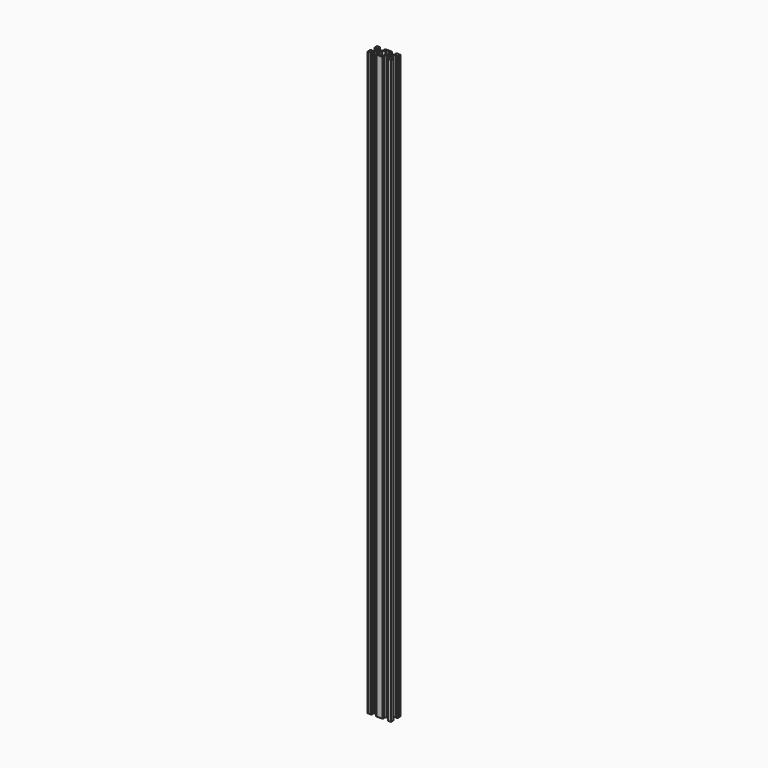
from build123d import *

# Parameters (mm, degrees)
SKETCH001_R         = 2.1
PAD001_DEPTH        = 1000
CHAMFER001_1_ANGLE  = 45
CHAMFER001_1_SIZE   = 1.7
CHAMFER001_2_ANGLE  = 45
CHAMFER001_2_SIZE   = 1.7
CHAMFER001_3_ANGLE  = 45
CHAMFER001_3_SIZE   = 1.7
CHAMFER001_4_ANGLE  = 45
CHAMFER001_4_SIZE   = 1.7
CHAMFER001_5_ANGLE  = 45
CHAMFER001_5_SIZE   = 1.7
CHAMFER001_6_ANGLE  = 45
CHAMFER001_6_SIZE   = 1.7
CHAMFER001_7_ANGLE  = 45
CHAMFER001_7_SIZE   = 1.7
CHAMFER001_8_ANGLE  = 45
CHAMFER001_8_SIZE   = 1.7
CHAMFER001_9_ANGLE  = 45
CHAMFER001_9_SIZE   = 1.7
CHAMFER001_10_ANGLE = 45
CHAMFER001_10_SIZE  = 1.7
CHAMFER001_11_ANGLE = 45
CHAMFER001_11_SIZE  = 1.7
CHAMFER001_12_ANGLE = 45
CHAMFER001_12_SIZE  = 1.7
FILLET001_R         = 0.2


with BuildPart() as part:
    # Sketch001 → Pad001 (new body)
    with BuildSketch(Plane.XY):
        Polygon((0, 3.723883), (0.176777, 3.90066), (2.84, 3.90066), (5.49934, 6.56), (5.49934, 8.2), (3.1, 8.2), (3.1, 10), (16.9, 10), (16.9, 8.2), (14.50066, 8.2), (14.50066, 6.56), (17.16, 3.90066), (19.823223, 3.90066), (20, 3.723883), (20.176777, 3.90066), (22.84, 3.90066), (25.49934, 6.56), (25.49934, 8.2), (23.1, 8.2), (23.1, 10), (30, 10), (30, 3.1), (28.2, 3.1), (28.2, 5.49934), (26.56, 5.49934), (23.90066, 2.84), (23.90066, 0.176777), (23.723883, 0), (23.90066, -0.176777), (23.90066, -2.84), (26.56, -5.49934), (28.2, -5.49934), (28.2, -3.1), (30, -3.1), (30, -10), (23.1, -10), (23.1, -8.2), (25.49934, -8.2), (25.49934, -6.56), (22.84, -3.90066), (20.176777, -3.90066), (20, -3.723883), (19.823223, -3.90066), (17.16, -3.90066), (14.50066, -6.56), (14.50066, -8.2), (16.9, -8.2), (16.9, -10), (3.1, -10), (3.1, -8.2), (5.49934, -8.2), (5.49934, -6.56), (2.84, -3.90066), (0.176777, -3.90066), (0, -3.723883), (-0.176777, -3.90066), (-2.84, -3.90066), (-5.49934, -6.56), (-5.49934, -8.2), (-3.1, -8.2), (-3.1, -10), (-10, -10), (-10, -3.1), (-8.2, -3.1), (-8.2, -5.49934), (-6.56, -5.49934), (-3.90066, -2.84), (-3.90066, -0.176777), (-3.723883, 0), (-3.90066, 0.176777), (-3.90066, 2.84), (-6.56, 5.49934), (-8.2, 5.49934), (-8.2, 3.1), (-10, 3.1), (-10, 10), (-3.1, 10), (-3.1, 8.2), (-5.49934, 8.2), (-5.49934, 6.56), (-2.84, 3.90066), (-0.176777, 3.90066), align=None)
        Circle(SKETCH001_R, mode=Mode.SUBTRACT)
        with Locations((20, 0)):
            Circle(SKETCH001_R, mode=Mode.SUBTRACT)
        Polygon((7.29934, 6.23868), (3.90066, 2.84), (3.90066, 0.176777), (3.723883, 0), (3.90066, -0.176777), (3.90066, -2.84), (7.29934, -6.23868), (7.29934, -8.2), (12.70066, -8.2), (12.70066, -6.23868), (16.09934, -2.84), (16.09934, -0.176777), (16.276117, 0), (16.09934, 0.176777), (16.09934, 2.84), (12.70066, 6.23868), (12.70066, 8.2), (7.29934, 8.2), align=None, mode=Mode.SUBTRACT)
    extrude(amount=PAD001_DEPTH)

    # Chamfer001 1
    chamfer001_1_edges = [part.edges().sort_by_distance(p)[0] for p in [
        (3.1, -10, 500),
    ]]
    chamfer001_1_side = part.faces().sort_by_distance((10, -10, 500))[0]
    chamfer(chamfer001_1_edges, length=CHAMFER001_1_SIZE, angle=CHAMFER001_1_ANGLE, reference=chamfer001_1_side)

    # Chamfer001 2
    chamfer001_2_edges = [part.edges().sort_by_distance(p)[0] for p in [
        (16.9, -10, 500),
    ]]
    chamfer001_2_side = part.faces().sort_by_distance((16.9, -9.1, 500))[0]
    chamfer(chamfer001_2_edges, length=CHAMFER001_2_SIZE, angle=CHAMFER001_2_ANGLE, reference=chamfer001_2_side)

    # Chamfer001 3
    chamfer001_3_edges = [part.edges().sort_by_distance(p)[0] for p in [
        (23.1, -10, 500),
    ]]
    chamfer001_3_side = part.faces().sort_by_distance((26.55, -10, 500))[0]
    chamfer(chamfer001_3_edges, length=CHAMFER001_3_SIZE, angle=CHAMFER001_3_ANGLE, reference=chamfer001_3_side)

    # Chamfer001 4
    chamfer001_4_edges = [part.edges().sort_by_distance(p)[0] for p in [
        (-3.1, -10, 500),
    ]]
    chamfer001_4_side = part.faces().sort_by_distance((-3.1, -9.1, 500))[0]
    chamfer(chamfer001_4_edges, length=CHAMFER001_4_SIZE, angle=CHAMFER001_4_ANGLE, reference=chamfer001_4_side)

    # Chamfer001 5
    chamfer001_5_edges = [part.edges().sort_by_distance(p)[0] for p in [
        (30, -3.1, 500),
    ]]
    chamfer001_5_side = part.faces().sort_by_distance((29.1, -3.1, 500))[0]
    chamfer(chamfer001_5_edges, length=CHAMFER001_5_SIZE, angle=CHAMFER001_5_ANGLE, reference=chamfer001_5_side)

    # Chamfer001 6
    chamfer001_6_edges = [part.edges().sort_by_distance(p)[0] for p in [
        (30, 3.1, 500),
    ]]
    chamfer001_6_side = part.faces().sort_by_distance((30, 6.55, 500))[0]
    chamfer(chamfer001_6_edges, length=CHAMFER001_6_SIZE, angle=CHAMFER001_6_ANGLE, reference=chamfer001_6_side)

    # Chamfer001 7
    chamfer001_7_edges = [part.edges().sort_by_distance(p)[0] for p in [
        (23.1, 10, 500),
    ]]
    chamfer001_7_side = part.faces().sort_by_distance((23.1, 9.1, 500))[0]
    chamfer(chamfer001_7_edges, length=CHAMFER001_7_SIZE, angle=CHAMFER001_7_ANGLE, reference=chamfer001_7_side)

    # Chamfer001 8
    chamfer001_8_edges = [part.edges().sort_by_distance(p)[0] for p in [
        (16.9, 10, 500),
    ]]
    chamfer001_8_side = part.faces().sort_by_distance((10, 10, 500))[0]
    chamfer(chamfer001_8_edges, length=CHAMFER001_8_SIZE, angle=CHAMFER001_8_ANGLE, reference=chamfer001_8_side)

    # Chamfer001 9
    chamfer001_9_edges = [part.edges().sort_by_distance(p)[0] for p in [
        (3.1, 10, 500),
    ]]
    chamfer001_9_side = part.faces().sort_by_distance((3.1, 9.1, 500))[0]
    chamfer(chamfer001_9_edges, length=CHAMFER001_9_SIZE, angle=CHAMFER001_9_ANGLE, reference=chamfer001_9_side)

    # Chamfer001 10
    chamfer001_10_edges = [part.edges().sort_by_distance(p)[0] for p in [
        (-3.1, 10, 500),
    ]]
    chamfer001_10_side = part.faces().sort_by_distance((-6.55, 10, 500))[0]
    chamfer(chamfer001_10_edges, length=CHAMFER001_10_SIZE, angle=CHAMFER001_10_ANGLE, reference=chamfer001_10_side)

    # Chamfer001 11
    chamfer001_11_edges = [part.edges().sort_by_distance(p)[0] for p in [
        (-10, -3.1, 500),
    ]]
    chamfer001_11_side = part.faces().sort_by_distance((-10, -6.55, 500))[0]
    chamfer(chamfer001_11_edges, length=CHAMFER001_11_SIZE, angle=CHAMFER001_11_ANGLE, reference=chamfer001_11_side)

    # Chamfer001 12
    chamfer001_12_edges = [part.edges().sort_by_distance(p)[0] for p in [
        (-10, 3.1, 500),
    ]]
    chamfer001_12_side = part.faces().sort_by_distance((-9.1, 3.1, 500))[0]
    chamfer(chamfer001_12_edges, length=CHAMFER001_12_SIZE, angle=CHAMFER001_12_ANGLE, reference=chamfer001_12_side)

    # Fillet001
    fillet001_edges = [part.edges().sort_by_distance(p)[0] for p in [
        (-10, -10, 500),
        (-10, 10, 500),
        (30, 10, 500),
        (30, -10, 500),
    ]]
    fillet(fillet001_edges, radius=FILLET001_R)


solid = part.part
